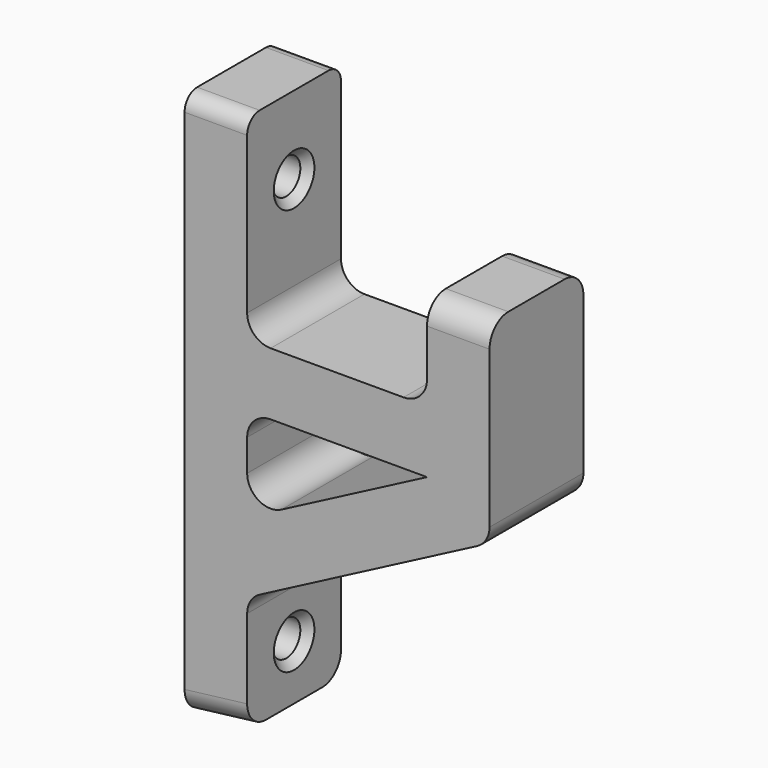
from build123d import *

# Parameters (mm, degrees)
PAD_DEPTH    = 7.5
SKETCH001_R  = 2.25
POCKET_DEPTH = 8
CHAMFER_SIZE = 1
FILLET_R     = 2
FILLET001_R  = 3
FILLET002_R  = 3
FILLET003_R  = 3


with BuildPart() as part:
    # Sketch → Pad (new body, symmetric)
    with BuildSketch(Plane.XZ):
        Polygon((0, 21.284523), (0, 91.284523), (8, 91.284523), (8, 66.284523), (31, 66.284523), (31, 78.284523), (39, 78.284523), (39, 53.435047), (8, 37.261134), (8, 22.261134), align=None)
        Polygon((8, 58.284523), (8, 46.284523), (31, 58.284523), align=None, mode=Mode.SUBTRACT)
    extrude(amount=PAD_DEPTH, both=True)

    # Sketch001 (on Face1 of Pad) → Pocket (cut)
    with BuildSketch(Plane(origin=(0, 0, 0), x_dir=(0, 0, -1), z_dir=(-1, 0, 0))):
        with Locations((-81.284523, 0)):
            Circle(SKETCH001_R)
        with Locations((-29.284523, 0)):
            Circle(SKETCH001_R)
    extrude(amount=-POCKET_DEPTH, mode=Mode.SUBTRACT)

    # Chamfer
    chamfer_edges = [part.edges().sort_by_distance(p)[0] for p in [
        (8, 0, 83.534523),
        (8, 0, 31.534523),
    ]]
    chamfer(chamfer_edges, length=CHAMFER_SIZE)

    # Fillet
    fillet_edges = [part.edges().sort_by_distance(p)[0] for p in [
        (4, -7.5, 91.284523),
        (4, 7.5, 91.284523),
    ]]
    fillet(fillet_edges, radius=FILLET_R)

    # Fillet001
    fillet001_edges = [part.edges().sort_by_distance(p)[0] for p in [
        (39, 0, 53.435047),
        (4, -7.5, 21.772828),
        (4, 7.5, 21.772828),
    ]]
    fillet(fillet001_edges, radius=FILLET001_R)

    # Fillet002
    fillet002_edges = [part.edges().sort_by_distance(p)[0] for p in [
        (35, -7.5, 78.284523),
        (35, 7.5, 78.284523),
        (8, 0, 37.261134),
    ]]
    fillet(fillet002_edges, radius=FILLET002_R)

    # Fillet003
    fillet003_edges = [part.edges().sort_by_distance(p)[0] for p in [
        (8, 0, 58.284523),
        (8, 0, 46.284523),
        (8, 0, 66.284523),
        (31, 0, 66.284523),
    ]]
    fillet(fillet003_edges, radius=FILLET003_R)


solid = part.part
